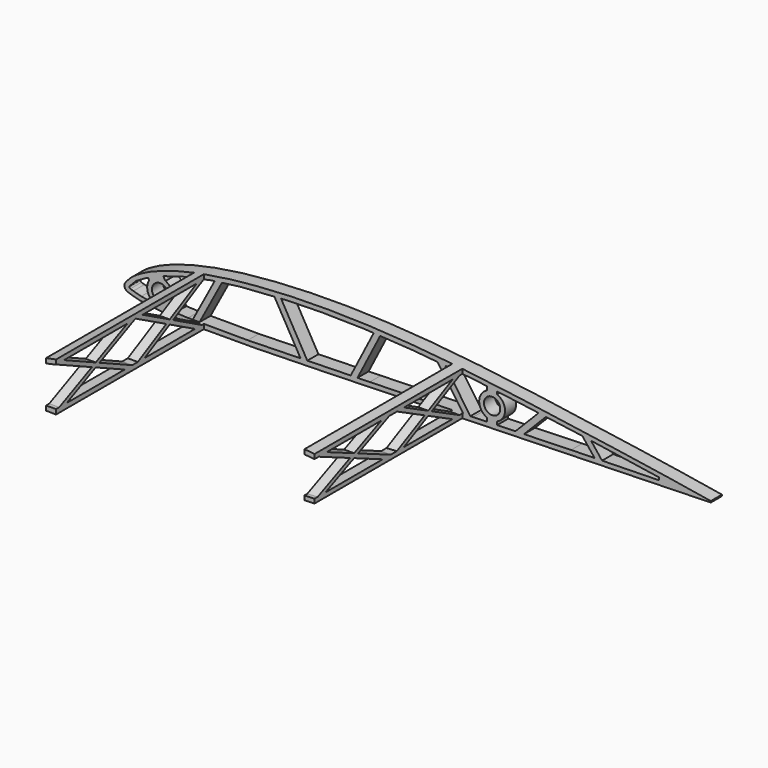
from build123d import *

# Parameters (mm, degrees)
PAD077_DEPTH    = 99.95
POCKET102_DEPTH = 99.95
SKETCH182_W     = 94.552856
SKETCH182_H     = 125.009666
POCKET103_DEPTH = 2.5
SKETCH184_W     = 55
SKETCH184_H     = 110
SKETCH184_W_2   = 125
SKETCH184_W_3   = 130
POCKET104_DEPTH = 50
SKETCH183_R     = 4.1
PAD078_DEPTH    = 7
PAD079_DEPTH    = 5
PAD080_DEPTH    = 5


with BuildPart() as part:
    # Sketch180 → Pad077 (new body)
    with BuildSketch(Plane.XZ):
        with BuildLine():
            add(Edge.make_bspline(
                [(299.999063, 0.026825), (299.662766, 0.037193), (298.339429, 0.190401), (295.439956, 0.589669), (290.775356, 1.337839), (284.500044, 2.393262), (276.735212, 3.66473), (267.577355, 5.083019), (257.136483, 6.653879), (245.549215, 8.381993), (232.975291, 10.222771), (219.590016, 12.153256), (205.573823, 14.115503), (191.111579, 16.055183), (176.381713, 17.897983), (161.544489, 19.553409), (146.739309, 20.940939), (132.087536, 21.99009), (117.705275, 22.664279), (103.703346, 22.961168), (90.192549, 22.858072), (77.284675, 22.375726), (65.094168, 21.544938), (53.730431, 20.369385), (43.29002, 18.857963), (33.852484, 17.043697), (25.485501, 14.967735), (18.252292, 12.67281), (12.179436, 10.224412), (7.338355, 7.689021), (3.623023, 5.152403), (1.3546, 2.748114), (-0.314638, 0.590402), (0.575789, -1.804065), (3.482069, -2.72942), (7.386052, -3.91761), (13.030922, -4.754284), (20.096342, -5.463024), (28.645402, -5.933379), (38.56853, -6.201185), (49.790194, -6.284208), (62.196701, -6.193111), (75.660953, -5.967607), (90.034637, -5.629522), (105.153445, -5.226063), (120.83724, -4.775199), (136.895942, -4.296045), (153.13493, -3.818601), (169.356828, -3.345106), (185.36574, -2.889379), (200.968742, -2.465331), (215.974941, -2.074889), (230.201502, -1.715375), (243.47905, -1.394255), (255.639348, -1.103787), (266.55871, -0.849968), (276.034544, -0.603524), (284.209012, -0.340437), (290.324953, -0.117215), (295.955653, 0.018504), (297.364702, 0.013759), (300.343856, 0.01512), (300.000055, 0.026794), (299.999063, 0.026825)],
                knots=[0, 0, 0, 0, 1.017748, 3.99659, 8.779341, 15.189917, 23.087031, 32.383824, 42.990765, 54.76218, 67.530065, 81.114584, 95.333435, 109.988542, 124.889458, 139.866624, 154.774633, 169.496697, 183.930349, 197.964304, 211.506735, 224.45797, 236.709214, 248.156653, 258.723012, 268.346769, 276.97692, 284.567784, 291.102108, 296.573756, 300.992679, 304.39163, 306.761357, 308.43213, 311.131254, 315.298227, 320.951765, 328.080828, 336.654655, 346.609821, 357.866231, 370.316475, 383.83025, 398.264023, 413.449345, 429.202773, 445.334827, 461.646891, 477.940787, 494.021253, 509.693044, 524.767168, 539.054704, 552.387642, 564.607107, 575.560217, 585.109622, 593.180747, 599.700326, 604.53767, 607.540683, 608.560842, 608.563842, 608.563842, 608.563842, 608.563842], degree=3))
        make_face()
    extrude(amount=PAD077_DEPTH)

    # Sketch181 (on Face3 of Pad077) → Pocket102 (cut)
    with BuildSketch(Plane.XZ.offset(99.95)):
        with BuildLine():
            Line((2.713263, 0.775372), (3.386703, 1.523026))
            Line((3.386703, 1.523026), (5.993214, 4.179621))
            Line((5.993214, 4.179621), (11.230826, 7.180706))
            Line((11.230826, 7.180706), (18.928726, 10.492708))
            Line((18.928726, 10.492708), (30.015602, 13.804502))
            Line((30.015602, 13.804502), (43.705284, 16.658491))
            Line((43.705284, 16.658491), (58.37534, 18.58366))
            Line((58.37534, 18.58366), (81.932846, 20.199753))
            Line((81.932846, 20.199753), (99.115959, 20.581533))
            Line((99.115959, 20.581533), (120.506348, 20.199753))
            Line((120.506348, 20.199753), (145.772324, 18.655943))
            Line((145.772324, 18.655943), (175.747543, 15.772772))
            Line((175.747543, 15.772772), (200.435547, 12.569891))
            Line((200.435547, 12.569891), (229.384109, 8.602522))
            Line((229.384109, 8.602522), (252.135086, 5.213018))
            Line((252.135086, 5.213018), (269.069916, 2.671427))
            Line((269.069916, 2.671427), (269.069916, 1.39956))
            Line((269.069916, 1.39956), (224.761032, 0.436598))
            Line((224.761032, 0.436598), (175.486649, -1.027315))
            Line((175.486649, -1.027315), (123.47789, -2.412929))
            Line((123.47789, -2.412929), (62.077515, -3.876549))
            Line((62.077515, -3.876549), (32.052879, -3.760909))
            Line((32.052879, -3.760909), (18.887957, -3.18288))
            Line((18.887957, -3.18288), (12.728564, -2.489715))
            Line((12.728564, -2.489715), (8.493419, -1.872198))
            Line((8.493419, -1.872198), (4.562357, -0.768246))
            Line((4.562357, -0.768246), (3.013953, -0.301296))
            ThreePointArc((2.713263, 0.775372), (2.567567, 0.15436), (3.013953, -0.301296))
        make_face()
    extrude(amount=-POCKET102_DEPTH, mode=Mode.SUBTRACT)

    # Sketch182 → Pocket103 (cut, symmetric)
    with BuildSketch(Plane.XY):
        with Locations((342.276428, -45.135685)):
            Rectangle(SKETCH182_W, SKETCH182_H)
    extrude(amount=POCKET103_DEPTH, both=True, mode=Mode.SUBTRACT)

    # Sketch184 → Pocket104 (cut, symmetric)
    with BuildSketch(Plane.XY):
        with Locations((7.5, -62)):
            Rectangle(SKETCH184_W, SKETCH184_H)
        with Locations((102.5, -62)):
            Rectangle(SKETCH184_W_2, SKETCH184_H)
        with Locations((235, -62)):
            Rectangle(SKETCH184_W_3, SKETCH184_H)
    extrude(amount=POCKET104_DEPTH, both=True, mode=Mode.SUBTRACT)

    # Sketch183 (on Face16 of Pocket104) → Pad078 (join)
    with BuildSketch(Plane.XZ.offset(7)):
        Polygon((45.883972, 17.721869), (33.929979, -4.654965), (37.331221, -4.654965), (49.864502, 18.806244), align=None)
        with BuildLine():
            ThreePointArc((12.49229, 6.45183), (11.877033, 0.818423), (15.915785, -3.156789))
            Line((15.915785, -3.156789), (16.615922, -4.582716))
            Line((16.615922, -4.582716), (26.093039, -4.582716))
            Line((23.927186, 0.331954), (26.093039, -4.582716))
            ThreePointArc((23.927186, 0.331954), (24.083233, 5.290038), (20.696327, 8.914374))
            Line((20.696327, 8.914374), (19.191151, 11.361285))
            Line((11.725203, 8.211095), (19.191151, 11.361285))
            Line((12.49229, 6.45183), (11.725203, 8.211095))
        make_face()
        with Locations((18, 3)):
            Circle(SKETCH183_R, mode=Mode.SUBTRACT)
        Polygon((74.837349, 20.968384), (89.206329, -4.249731), (92.659144, -4.249731), (78.184032, 21.154647), align=None)
        Polygon((113.371621, -3.617416), (125.992361, 20.986459), (129.33754, 20.934824), (116.743287, -3.617416), align=None)
        Polygon((156.489991, 19.012594), (171.223801, -2.187052), (175.064011, -2.455857), (160.385949, 18.663577), align=None)
        Polygon((195.991472, -1.145031), (209.190294, 12.320477), (213.439896, 12.370226), (200.19231, -1.145031), align=None)
        Polygon((229.837707, 9.194464), (237.095519, 0), (240.917549, 0), (234.226173, 8.476883), align=None)
        with BuildLine():
            ThreePointArc((182.5, 13), (178.5, 7), (182.5, 1))
            Line((182.5, 1), (182.5, -1.799935))
            Line((182.5, -1.799935), (187.5, -1.799935))
            Line((187.5, -1.799935), (187.5, 1))
            ThreePointArc((187.5, 1), (191.5, 7), (187.5, 13))
            Line((187.5, 15.534908), (187.5, 13))
            Line((182.5, 15.936711), (187.5, 15.534908))
            Line((182.5, 13), (182.5, 15.936711))
        make_face()
        with Locations((185, 7)):
            Circle(SKETCH183_R, mode=Mode.SUBTRACT)
    extrude(amount=-PAD078_DEPTH)

    # Sketch185 (on Face12 of Pad078) → Pad079 (join)
    with BuildSketch(Plane(origin=(35, 0, 0), x_dir=(0, 0, -1), z_dir=(-1, 0, 0))):
        Polygon((-17.098402, 50), (-16.000205, 50), (5.939144, 8.475523), (5.961339, 7.089303), (4.409559, 7.089303), (-17.122807, 47.843484), align=None)
        Polygon((-17.129333, 7.10705), (-17.129333, 9.145432), (4.558284, 50), (5.87403, 50.001778), (5.939742, 48.336863), (-15.947074, 7.10705), align=None)
        Polygon((-17.135797, 50), (-15.97758, 50.087739), (5.971195, 97.920066), (5.971195, 99.859802), (4.66077, 99.859802), (-17.135797, 52.359178), align=None)
        Polygon((-15.957584, 99.885406), (-17.033993, 99.885406), (-17.078244, 97.5311), (4.717648, 50), (5.827496, 50.157914), (5.827496, 52.377885), align=None)
    extrude(amount=-PAD079_DEPTH)

    # Sketch186 (on Face7 of Pad079) → Pad080 (join)
    with BuildSketch(Plane(origin=(170, 0, 0), x_dir=(0, 0, 1), z_dir=(1, 0, 0))):
        Polygon((-3.230705, 7.091972), (-2.057019, 7.091972), (18.437528, 47.77545), (18.437528, 50), (17.308382, 49.979477), (-3.230705, 9.207583), align=None)
        Polygon((17.122561, 7.079828), (18.495286, 7.079828), (18.495286, 8.806629), (-2.098574, 50), (-3.175621, 49.915909), (-3.175621, 47.681762), align=None)
        Polygon((-3.193453, 99.869281), (-2.030565, 99.869281), (18.427737, 53.149961), (18.502468, 50), (17.575653, 50.109833), (-3.193453, 97.538917), align=None)
        Polygon((-3.223656, 50), (-3.223656, 52.317749), (17.471001, 99.860643), (18.452137, 99.860643), (18.452137, 97.103538), (-2.059094, 49.982041), align=None)
    extrude(amount=-PAD080_DEPTH)


with BuildPart() as part_1:
    # Body037 placement: moved
    add(part.part.moved(Location((0, -200, 0))))


solid = part_1.part
